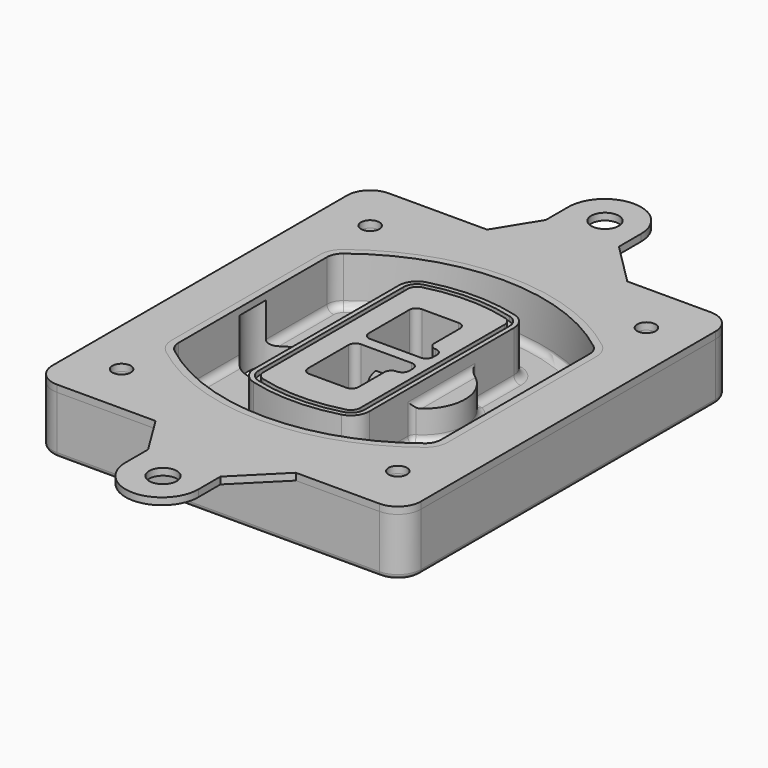
from build123d import *

# Parameters (mm, degrees)
F0_R      = 4
F1_DEPTH  = 25
F2_DEPTH  = 3
F3_DEPTH  = 18
F5_DEPTH  = 21
F6_DEPTH  = 2
F8_DEPTH  = 20
F9_DEPTH  = 16
F10_DEPTH = 25
F7_R      = 6
F7_R_2    = 4
F11_DEPTH = 6
F13_DEPTH = 9
F14_R     = 3
F15_R     = 2
F16_R     = 6
F16_R_2   = 4
F17_DEPTH = 3


with BuildPart() as f1:
    # F0 (on Top) → F1 (new body)
    with BuildSketch(Plane.XY):
        with BuildLine():
            ThreePointArc((-80, -80), (-77.0710678119, -87.0710678119), (-70, -90))
            Line((-70, -90), (70, -90))
            ThreePointArc((70, -90), (77.0710678119, -87.0710678119), (80, -80))
            Line((80, -80), (80, 80))
            ThreePointArc((80, 80), (77.0710678119, 87.0710678119), (70, 90))
            Line((70, 90), (-70, 90))
            ThreePointArc((-70, 90), (-77.0710678119, 87.0710678119), (-80, 80))
            Line((-80, 80), (-80, -80))
        make_face()
        with Locations((-60, -67.5)):
            Circle(F0_R, mode=Mode.SUBTRACT)
        with Locations((60, -67.5)):
            Circle(F0_R, mode=Mode.SUBTRACT)
        with Locations((-60, 67.5)):
            Circle(F0_R, mode=Mode.SUBTRACT)
        with BuildLine():
            ThreePointArc((-64, 40.2934422872), (-62.5820384798, 46.4328484224), (-58.6153846154, 51.3286200352))
            ThreePointArc((-58.6153846154, 51.3286200352), (0, 71.5), (58.6153846154, 51.3286200352))
            ThreePointArc((58.6153846154, 51.3286200352), (62.5820384798, 46.4328484224), (64, 40.2934422872))
            Line((64, 40.2934422872), (64, -40.2934422872))
            ThreePointArc((64, -40.2934422872), (62.5820384798, -46.4328484224), (58.6153846154, -51.3286200352))
            ThreePointArc((58.6153846154, -51.3286200352), (0, -71.5), (-58.6153846154, -51.3286200352))
            ThreePointArc((-58.6153846154, -51.3286200352), (-62.5820384798, -46.4328484224), (-64, -40.2934422872))
            Line((-64, -40.2934422872), (-64, 40.2934422872))
        make_face(mode=Mode.SUBTRACT)
        with Locations((60, 67.5)):
            Circle(F0_R, mode=Mode.SUBTRACT)
        with BuildLine():
            ThreePointArc((58.6153846154, 51.3286200352), (0, 71.5), (-58.6153846154, 51.3286200352))
            ThreePointArc((-58.6153846154, 51.3286200352), (-62.5820384798, 46.4328484224), (-64, 40.2934422872))
            Line((-64, 40.2934422872), (-64, -40.2934422872))
            ThreePointArc((-64, -40.2934422872), (-62.5820384798, -46.4328484224), (-58.6153846154, -51.3286200352))
            ThreePointArc((-58.6153846154, -51.3286200352), (0, -71.5), (58.6153846154, -51.3286200352))
            ThreePointArc((58.6153846154, -51.3286200352), (62.5820384798, -46.4328484224), (64, -40.2934422872))
            Line((64, -40.2934422872), (64, 40.2934422872))
            ThreePointArc((64, 40.2934422872), (62.5820384798, 46.4328484224), (58.6153846154, 51.3286200352))
        make_face()
        with BuildLine():
            Line((-60, -40.2934422872), (-60, 40.2934422872))
            ThreePointArc((-60, 40.2934422872), (-58.9871703427, 44.6787323838), (-56.1538461538, 48.1757121072))
            ThreePointArc((-56.1538461538, 48.1757121072), (0, 67.5), (56.1538461538, 48.1757121072))
            ThreePointArc((56.1538461538, 48.1757121072), (58.9871703427, 44.6787323838), (60, 40.2934422872))
            Line((60, 40.2934422872), (60, -40.2934422872))
            ThreePointArc((60, -40.2934422872), (58.9871703427, -44.6787323838), (56.1538461538, -48.1757121072))
            ThreePointArc((56.1538461538, -48.1757121072), (0, -67.5), (-56.1538461538, -48.1757121072))
            ThreePointArc((-56.1538461538, -48.1757121072), (-58.9871703427, -44.6787323838), (-60, -40.2934422872))
        make_face(mode=Mode.SUBTRACT)
        with BuildLine():
            ThreePointArc((-56.1538461538, 48.1757121072), (-58.9871703427, 44.6787323838), (-60, 40.2934422872))
            Line((-60, 40.2934422872), (-60, -40.2934422872))
            ThreePointArc((-60, -40.2934422872), (-58.9871703427, -44.6787323838), (-56.1538461538, -48.1757121072))
            ThreePointArc((-56.1538461538, -48.1757121072), (0, -67.5), (56.1538461538, -48.1757121072))
            ThreePointArc((56.1538461538, -48.1757121072), (58.9871703427, -44.6787323838), (60, -40.2934422872))
            Line((60, -40.2934422872), (60, 40.2934422872))
            ThreePointArc((60, 40.2934422872), (58.9871703427, 44.6787323838), (56.1538461538, 48.1757121072))
            ThreePointArc((56.1538461538, 48.1757121072), (0, 67.5), (-56.1538461538, 48.1757121072))
        make_face()
        with BuildLine():
            ThreePointArc((54.3076923077, 45.8110311612), (56.2910192399, 43.3631453548), (57, 40.2934422872))
            Line((57, 40.2934422872), (57, -40.2934422872))
            ThreePointArc((57, -40.2934422872), (56.2910192399, -43.3631453548), (54.3076923077, -45.8110311612))
            ThreePointArc((54.3076923077, -45.8110311612), (0, -64.5), (-54.3076923077, -45.8110311612))
            ThreePointArc((-54.3076923077, -45.8110311612), (-56.2910192399, -43.3631453548), (-57, -40.2934422872))
            Line((-57, -40.2934422872), (-57, 40.2934422872))
            ThreePointArc((-57, 40.2934422872), (-56.2910192399, 43.3631453548), (-54.3076923077, 45.8110311612))
            ThreePointArc((-54.3076923077, 45.8110311612), (0, 64.5), (54.3076923077, 45.8110311612))
        make_face(mode=Mode.SUBTRACT)
        with BuildLine():
            Line((57, -40.2934422872), (57, 40.2934422872))
            ThreePointArc((57, 40.2934422872), (56.2910192399, 43.3631453548), (54.3076923077, 45.8110311612))
            ThreePointArc((54.3076923077, 45.8110311612), (0, 64.5), (-54.3076923077, 45.8110311612))
            ThreePointArc((-54.3076923077, 45.8110311612), (-56.2910192399, 43.3631453548), (-57, 40.2934422872))
            Line((-57, 40.2934422872), (-57, -40.2934422872))
            ThreePointArc((-57, -40.2934422872), (-56.2910192399, -43.3631453548), (-54.3076923077, -45.8110311612))
            ThreePointArc((-54.3076923077, -45.8110311612), (0, -64.5), (54.3076923077, -45.8110311612))
            ThreePointArc((54.3076923077, -45.8110311612), (56.2910192399, -43.3631453548), (57, -40.2934422872))
        make_face()
    extrude(amount=-F1_DEPTH)

    # F0 (on Top) → F2 (join)
    with BuildSketch(Plane.XY):
        with BuildLine():
            ThreePointArc((-56.1538461538, 48.1757121072), (-58.9871703427, 44.6787323838), (-60, 40.2934422872))
            Line((-60, 40.2934422872), (-60, -40.2934422872))
            ThreePointArc((-60, -40.2934422872), (-58.9871703427, -44.6787323838), (-56.1538461538, -48.1757121072))
            ThreePointArc((-56.1538461538, -48.1757121072), (0, -67.5), (56.1538461538, -48.1757121072))
            ThreePointArc((56.1538461538, -48.1757121072), (58.9871703427, -44.6787323838), (60, -40.2934422872))
            Line((60, -40.2934422872), (60, 40.2934422872))
            ThreePointArc((60, 40.2934422872), (58.9871703427, 44.6787323838), (56.1538461538, 48.1757121072))
            ThreePointArc((56.1538461538, 48.1757121072), (0, 67.5), (-56.1538461538, 48.1757121072))
        make_face()
        with BuildLine():
            ThreePointArc((54.3076923077, 45.8110311612), (56.2910192399, 43.3631453548), (57, 40.2934422872))
            Line((57, 40.2934422872), (57, -40.2934422872))
            ThreePointArc((57, -40.2934422872), (56.2910192399, -43.3631453548), (54.3076923077, -45.8110311612))
            ThreePointArc((54.3076923077, -45.8110311612), (0, -64.5), (-54.3076923077, -45.8110311612))
            ThreePointArc((-54.3076923077, -45.8110311612), (-56.2910192399, -43.3631453548), (-57, -40.2934422872))
            Line((-57, -40.2934422872), (-57, 40.2934422872))
            ThreePointArc((-57, 40.2934422872), (-56.2910192399, 43.3631453548), (-54.3076923077, 45.8110311612))
            ThreePointArc((-54.3076923077, 45.8110311612), (0, 64.5), (54.3076923077, 45.8110311612))
        make_face(mode=Mode.SUBTRACT)
    extrude(amount=F2_DEPTH)

    # F0 (on Top) → F3 (cut)
    with BuildSketch(Plane.XY):
        with BuildLine():
            Line((57, -40.2934422872), (57, 40.2934422872))
            ThreePointArc((57, 40.2934422872), (56.2910192399, 43.3631453548), (54.3076923077, 45.8110311612))
            ThreePointArc((54.3076923077, 45.8110311612), (0, 64.5), (-54.3076923077, 45.8110311612))
            ThreePointArc((-54.3076923077, 45.8110311612), (-56.2910192399, 43.3631453548), (-57, 40.2934422872))
            Line((-57, 40.2934422872), (-57, -40.2934422872))
            ThreePointArc((-57, -40.2934422872), (-56.2910192399, -43.3631453548), (-54.3076923077, -45.8110311612))
            ThreePointArc((-54.3076923077, -45.8110311612), (0, -64.5), (54.3076923077, -45.8110311612))
            ThreePointArc((54.3076923077, -45.8110311612), (56.2910192399, -43.3631453548), (57, -40.2934422872))
        make_face()
    extrude(amount=-F3_DEPTH, mode=Mode.SUBTRACT)

    # F4 (on face) → F5 (join, through all)
    with BuildSketch(Plane.XY.offset(3)):
        with BuildLine():
            ThreePointArc((-25, -39.2465276821), (-23.3511545998, -44.1109737193), (-19.0842911877, -46.9702398883))
            ThreePointArc((-19.0842911877, -46.9702398883), (0, -49.5), (19.0842911877, -46.9702398883))
            ThreePointArc((19.0842911877, -46.9702398883), (23.3511545998, -44.1109737193), (25, -39.2465276821))
            Line((25, -39.2465276821), (25, 39.2465276821))
            ThreePointArc((25, 39.2465276821), (23.3511545998, 44.1109737193), (19.0842911877, 46.9702398883))
            ThreePointArc((19.0842911877, 46.9702398883), (0, 49.5), (-19.0842911877, 46.9702398883))
            ThreePointArc((-19.0842911877, 46.9702398883), (-23.3511545998, 44.1109737193), (-25, 39.2465276821))
            Line((-25, 39.2465276821), (-25, -39.2465276821))
        make_face()
        with BuildLine():
            ThreePointArc((18.5632183908, 45.0393118368), (21.7633659499, 42.89486221), (23, 39.2465276821))
            Line((23, 39.2465276821), (23, -39.2465276821))
            ThreePointArc((23, -39.2465276821), (21.7633659499, -42.89486221), (18.5632183908, -45.0393118368))
            ThreePointArc((18.5632183908, -45.0393118368), (0, -47.5), (-18.5632183908, -45.0393118368))
            ThreePointArc((-18.5632183908, -45.0393118368), (-21.7633659499, -42.89486221), (-23, -39.2465276821))
            Line((-23, -39.2465276821), (-23, 39.2465276821))
            ThreePointArc((-23, 39.2465276821), (-21.7633659499, 42.89486221), (-18.5632183908, 45.0393118368))
            ThreePointArc((-18.5632183908, 45.0393118368), (0, 47.5), (18.5632183908, 45.0393118368))
        make_face(mode=Mode.SUBTRACT)
        with BuildLine():
            Line((23, -39.2465276821), (23, 39.2465276821))
            ThreePointArc((23, 39.2465276821), (21.7633659499, 42.89486221), (18.5632183908, 45.0393118368))
            ThreePointArc((18.5632183908, 45.0393118368), (0, 47.5), (-18.5632183908, 45.0393118368))
            ThreePointArc((-18.5632183908, 45.0393118368), (-21.7633659499, 42.89486221), (-23, 39.2465276821))
            Line((-23, 39.2465276821), (-23, -39.2465276821))
            ThreePointArc((-23, -39.2465276821), (-21.7633659499, -42.89486221), (-18.5632183908, -45.0393118368))
            ThreePointArc((-18.5632183908, -45.0393118368), (0, -47.5), (18.5632183908, -45.0393118368))
            ThreePointArc((18.5632183908, -45.0393118368), (21.7633659499, -42.89486221), (23, -39.2465276821))
        make_face()
        with BuildLine():
            ThreePointArc((18.0421455939, 43.1083837852), (20.1755772999, 41.6787507007), (21, 39.2465276821))
            Line((21, 39.2465276821), (21, -39.2465276821))
            ThreePointArc((21, -39.2465276821), (20.1755772999, -41.6787507007), (18.0421455939, -43.1083837852))
            ThreePointArc((18.0421455939, -43.1083837852), (0, -45.5), (-18.0421455939, -43.1083837852))
            ThreePointArc((-18.0421455939, -43.1083837852), (-20.1755772999, -41.6787507007), (-21, -39.2465276821))
            Line((-21, -39.2465276821), (-21, 39.2465276821))
            ThreePointArc((-21, 39.2465276821), (-20.1755772999, 41.6787507007), (-18.0421455939, 43.1083837852))
            ThreePointArc((-18.0421455939, 43.1083837852), (0, 45.5), (18.0421455939, 43.1083837852))
        make_face(mode=Mode.SUBTRACT)
        with BuildLine():
            Line((21, -39.2465276821), (21, 39.2465276821))
            ThreePointArc((21, 39.2465276821), (20.1755772999, 41.6787507007), (18.0421455939, 43.1083837852))
            ThreePointArc((18.0421455939, 43.1083837852), (0, 45.5), (-18.0421455939, 43.1083837852))
            ThreePointArc((-18.0421455939, 43.1083837852), (-20.1755772999, 41.6787507007), (-21, 39.2465276821))
            Line((-21, 39.2465276821), (-21, -39.2465276821))
            ThreePointArc((-21, -39.2465276821), (-20.1755772999, -41.6787507007), (-18.0421455939, -43.1083837852))
            ThreePointArc((-18.0421455939, -43.1083837852), (0, -45.5), (18.0421455939, -43.1083837852))
            ThreePointArc((18.0421455939, -43.1083837852), (20.1755772999, -41.6787507007), (21, -39.2465276821))
        make_face()
        with BuildLine():
            Line((-8, -2.5), (14, -2.5))
            ThreePointArc((14, -2.5), (16.1213203436, -3.3786796564), (17, -5.5))
            Line((17, -5.5), (17, -7.5))
            ThreePointArc((17, -7.5), (16.1213203436, -9.6213203436), (14, -10.5))
            ThreePointArc((14, -10.5), (11.8786796564, -11.3786796564), (11, -13.5))
            Line((11, -13.5), (11, -27.5))
            ThreePointArc((11, -27.5), (10.1213203436, -29.6213203436), (8, -30.5))
            Line((8, -30.5), (-8, -30.5))
            ThreePointArc((-8, -30.5), (-10.1213203436, -29.6213203436), (-11, -27.5))
            Line((-11, -27.5), (-11, -5.5))
            ThreePointArc((-11, -5.5), (-10.1213203436, -3.3786796564), (-8, -2.5))
        make_face(mode=Mode.SUBTRACT)
        with BuildLine():
            ThreePointArc((-8, 2.5), (-10.1213203436, 3.3786796564), (-11, 5.5))
            Line((-11, 5.5), (-11, 27.5))
            ThreePointArc((-11, 27.5), (-10.1213203436, 29.6213203436), (-8, 30.5))
            Line((-8, 30.5), (8, 30.5))
            ThreePointArc((8, 30.5), (10.1213203436, 29.6213203436), (11, 27.5))
            Line((11, 27.5), (11, 13.5))
            ThreePointArc((11, 13.5), (11.8786796564, 11.3786796564), (14, 10.5))
            ThreePointArc((14, 10.5), (16.1213203436, 9.6213203436), (17, 7.5))
            Line((17, 7.5), (17, 5.5))
            ThreePointArc((17, 5.5), (16.1213203436, 3.3786796564), (14, 2.5))
            Line((14, 2.5), (-8, 2.5))
        make_face(mode=Mode.SUBTRACT)
    extrude(amount=-F5_DEPTH)

    # F4 (on face) → F6 (cut)
    with BuildSketch(Plane.XY.offset(3)):
        with BuildLine():
            Line((23, -39.2465276821), (23, 39.2465276821))
            ThreePointArc((23, 39.2465276821), (21.7633659499, 42.89486221), (18.5632183908, 45.0393118368))
            ThreePointArc((18.5632183908, 45.0393118368), (0, 47.5), (-18.5632183908, 45.0393118368))
            ThreePointArc((-18.5632183908, 45.0393118368), (-21.7633659499, 42.89486221), (-23, 39.2465276821))
            Line((-23, 39.2465276821), (-23, -39.2465276821))
            ThreePointArc((-23, -39.2465276821), (-21.7633659499, -42.89486221), (-18.5632183908, -45.0393118368))
            ThreePointArc((-18.5632183908, -45.0393118368), (0, -47.5), (18.5632183908, -45.0393118368))
            ThreePointArc((18.5632183908, -45.0393118368), (21.7633659499, -42.89486221), (23, -39.2465276821))
        make_face()
        with BuildLine():
            ThreePointArc((18.0421455939, 43.1083837852), (20.1755772999, 41.6787507007), (21, 39.2465276821))
            Line((21, 39.2465276821), (21, -39.2465276821))
            ThreePointArc((21, -39.2465276821), (20.1755772999, -41.6787507007), (18.0421455939, -43.1083837852))
            ThreePointArc((18.0421455939, -43.1083837852), (0, -45.5), (-18.0421455939, -43.1083837852))
            ThreePointArc((-18.0421455939, -43.1083837852), (-20.1755772999, -41.6787507007), (-21, -39.2465276821))
            Line((-21, -39.2465276821), (-21, 39.2465276821))
            ThreePointArc((-21, 39.2465276821), (-20.1755772999, 41.6787507007), (-18.0421455939, 43.1083837852))
            ThreePointArc((-18.0421455939, 43.1083837852), (0, 45.5), (18.0421455939, 43.1083837852))
        make_face(mode=Mode.SUBTRACT)
    extrude(amount=-F6_DEPTH, mode=Mode.SUBTRACT)

    # F7 (on face) → F8 (join)
    with BuildSketch(Plane(origin=(0, 0, -25), x_dir=(1, 0, 0), z_dir=(0, 0, -1))):
        with BuildLine():
            ThreePointArc((3.28842436, 0), (16.7567035675, 13.4682792075), (30.224982775, 0))
            Line((30.224982775, 0), (35.224982775, 0))
            ThreePointArc((35.224982775, 0), (16.7567035675, 18.4682792075), (-1.71157564, 0))
            Line((-1.71157564, 0), (3.28842436, 0))
        make_face()
        with BuildLine():
            Line((3.28842436, 0), (30.224982775, 0))
            ThreePointArc((30.224982775, 0), (16.7567035675, 13.4682792075), (3.28842436, 0))
        make_face()
        with BuildLine():
            ThreePointArc((3.28842436, 0), (16.7567035675, -13.4682792075), (30.224982775, 0))
            Line((30.224982775, 0), (3.28842436, 0))
        make_face()
        with BuildLine():
            Line((35.224982775, 0), (30.224982775, 0))
            ThreePointArc((30.224982775, 0), (16.7567035675, -13.4682792075), (3.28842436, 0))
            Line((3.28842436, 0), (-1.71157564, 0))
            ThreePointArc((-1.71157564, 0), (16.7567035675, -18.4682792075), (35.224982775, 0))
        make_face()
    extrude(amount=-F8_DEPTH)

    # F7 (on face) → F9 (cut)
    with BuildSketch(Plane(origin=(0, 0, -25), x_dir=(1, 0, 0), z_dir=(0, 0, -1))):
        with BuildLine():
            Line((3.28842436, 0), (30.224982775, 0))
            ThreePointArc((30.224982775, 0), (16.7567035675, 13.4682792075), (3.28842436, 0))
        make_face()
        with BuildLine():
            ThreePointArc((3.28842436, 0), (16.7567035675, -13.4682792075), (30.224982775, 0))
            Line((30.224982775, 0), (3.28842436, 0))
        make_face()
    extrude(amount=-F9_DEPTH, mode=Mode.SUBTRACT)

    # F7 (on face) → F10 (cut)
    with BuildSketch(Plane(origin=(0, 0, -25), x_dir=(1, 0, 0), z_dir=(0, 0, -1))):
        with BuildLine():
            Line((-59.0318229325, 0), (-32.0952645175, 0))
            ThreePointArc((-32.0952645175, 0), (-45.563543725, 13.4682792075), (-59.0318229325, 0))
        make_face()
        with BuildLine():
            ThreePointArc((-59.0318229325, 0), (-45.563543725, -13.4682792075), (-32.0952645175, 0))
            Line((-32.0952645175, 0), (-59.0318229325, 0))
        make_face()
    extrude(amount=-F10_DEPTH, mode=Mode.SUBTRACT)

    # F7 (on face) → F11 (cut)
    with BuildSketch(Plane(origin=(0, 0, -25), x_dir=(1, 0, 0), z_dir=(0, 0, -1))):
        with Locations((60, -67.5)):
            Circle(F7_R)
        with Locations((60, -67.5)):
            Circle(F7_R_2, mode=Mode.SUBTRACT)
        with Locations((60, -67.5)):
            Circle(F7_R)
        with Locations((60, -67.5)):
            Circle(F7_R_2, mode=Mode.SUBTRACT)
        with Locations((-60, -67.5)):
            Circle(F7_R)
        with Locations((-60, -67.5)):
            Circle(F7_R_2, mode=Mode.SUBTRACT)
        with Locations((-60, -67.5)):
            Circle(F7_R)
        with Locations((-60, -67.5)):
            Circle(F7_R_2, mode=Mode.SUBTRACT)
        with Locations((-60, 67.5)):
            Circle(F7_R)
        with Locations((-60, 67.5)):
            Circle(F7_R_2, mode=Mode.SUBTRACT)
        with Locations((-60, 67.5)):
            Circle(F7_R)
        with Locations((-60, 67.5)):
            Circle(F7_R_2, mode=Mode.SUBTRACT)
        with Locations((60, 67.5)):
            Circle(F7_R)
        with Locations((60, 67.5)):
            Circle(F7_R_2, mode=Mode.SUBTRACT)
        with Locations((60, 67.5)):
            Circle(F7_R)
        with Locations((60, 67.5)):
            Circle(F7_R_2, mode=Mode.SUBTRACT)
    extrude(amount=-F11_DEPTH, mode=Mode.SUBTRACT)

    # F12 (on face) → F13 (cut, through all)
    with BuildSketch(Plane(origin=(0, 0, -9), x_dir=(1, 0, 0), z_dir=(0, 0, -1))):
        with BuildLine():
            Line((11, 13.5), (11, 17.5481537753))
            ThreePointArc((11, 17.5481537753), (2.5696536419, 11.8239143813), (-1.5415842455, 2.5))
            Line((-1.5415842455, 2.5), (3.5224848595, 2.5))
            ThreePointArc((3.5224848595, 2.5), (6.1857188154, 8.3455872281), (11.2536447004, 12.2927168648))
            ThreePointArc((11.2536447004, 12.2927168648), (11.0640958889, 12.8831798879), (11, 13.5))
        make_face()
        with BuildLine():
            ThreePointArc((11.2536447004, -12.2927168648), (6.1857188154, -8.3455872281), (3.5224848595, -2.5))
            Line((3.5224848595, -2.5), (-1.5415842455, -2.5))
            ThreePointArc((-1.5415842455, -2.5), (2.5696536419, -11.8239143813), (11, -17.5481537753))
            Line((11, -17.5481537753), (11, -13.5))
            ThreePointArc((11, -13.5), (11.0640958889, -12.8831798879), (11.2536447004, -12.2927168648))
        make_face()
        with BuildLine():
            ThreePointArc((11.2536447004, 12.2927168648), (6.1857188154, 8.3455872281), (3.5224848595, 2.5))
            Line((3.5224848595, 2.5), (14, 2.5))
            ThreePointArc((14, 2.5), (16.1213203436, 3.3786796564), (17, 5.5))
            Line((17, 5.5), (17, 7.5))
            ThreePointArc((17, 7.5), (16.1213203436, 9.6213203436), (14, 10.5))
            ThreePointArc((14, 10.5), (12.3601599782, 10.9878446101), (11.2536447004, 12.2927168648))
        make_face()
        with BuildLine():
            Line((14, -2.5), (3.5224848595, -2.5))
            ThreePointArc((3.5224848595, -2.5), (6.1857188154, -8.3455872281), (11.2536447004, -12.2927168648))
            ThreePointArc((11.2536447004, -12.2927168648), (12.3601599782, -10.9878446101), (14, -10.5))
            ThreePointArc((14, -10.5), (16.1213203436, -9.6213203436), (17, -7.5))
            Line((17, -7.5), (17, -5.5))
            ThreePointArc((17, -5.5), (16.1213203436, -3.3786796564), (14, -2.5))
        make_face()
    extrude(amount=F13_DEPTH, mode=Mode.SUBTRACT)

    # F14
    f14_edges = [f1.edges().sort_by_distance(p)[0] for p in [
        (-57, -23.703476, -18),
        (-57, 23.703476, -18),
        (25, 0, -5),
        (25, 16.526506, -11.5),
        (25, -16.526506, -11.5),
        (25, -27.886517, -18),
        (35.224983, 0, -18),
    ]]
    fillet(f14_edges, radius=F14_R)

    # F15
    f15_edges = [f1.edges().sort_by_distance(p)[0] for p in [
        (0, -90, -25),
    ]]
    fillet(f15_edges, radius=F15_R)


with BuildPart() as f17:
    # F16 (on face) → F17 (new body, through all)
    with BuildSketch(Plane.XY):
        with BuildLine():
            Line((-16.0893651023, 108), (-27.2202603519, 90))
            Line((-27.2202603519, 90), (33.6788445711, 90))
            Line((33.6788445711, 90), (15.4990227281, 108.179821843))
            Line((15.4990227281, 108.179821843), (15.4990227281, 120.179821843))
            ThreePointArc((15.4990227281, 120.179821843), (-0.2951711871, 135.9740157582), (-16.0893651023, 120.179821843))
            Line((-16.0893651023, 120.179821843), (-16.0893651023, 108))
        make_face()
        with Locations((0, 120)):
            Circle(F16_R, mode=Mode.SUBTRACT)
        with BuildLine():
            Line((33.6788445711, -90), (-27.2202603519, -90))
            Line((-27.2202603519, -90), (-16.0893651023, -108))
            Line((-16.0893651023, -108), (-16.0893651023, -120.179821843))
            ThreePointArc((-16.0893651023, -120.179821843), (-0.2951711871, -135.9740157582), (15.4990227281, -120.179821843))
            Line((15.4990227281, -120.179821843), (15.4990227281, -108.179821843))
            Line((15.4990227281, -108.179821843), (33.6788445711, -90))
        make_face()
        with Locations((0, -120)):
            Circle(F16_R, mode=Mode.SUBTRACT)
        with BuildLine():
            Line((33.6788445711, 90), (-27.2202603519, 90))
            Line((-27.2202603519, 90), (-70, 90))
            ThreePointArc((-70, 90), (-77.0710678119, 87.0710678119), (-80, 80))
            Line((-80, 80), (-80, -80))
            ThreePointArc((-80, -80), (-77.0710678119, -87.0710678119), (-70, -90))
            Line((-70, -90), (-27.2202603519, -90))
            Line((-27.2202603519, -90), (33.6788445711, -90))
            Line((33.6788445711, -90), (70, -90))
            ThreePointArc((70, -90), (77.0710678119, -87.0710678119), (80, -80))
            Line((80, -80), (80, 80))
            ThreePointArc((80, 80), (77.0710678119, 87.0710678119), (70, 90))
            Line((70, 90), (33.6788445711, 90))
        make_face()
        with Locations((-60, -67.5)):
            Circle(F16_R_2, mode=Mode.SUBTRACT)
        with Locations((60, -67.5)):
            Circle(F16_R_2, mode=Mode.SUBTRACT)
        with Locations((-60, 67.5)):
            Circle(F16_R_2, mode=Mode.SUBTRACT)
        with BuildLine():
            ThreePointArc((-60, 40.2934422872), (-58.9871703427, 44.6787323838), (-56.1538461538, 48.1757121072))
            ThreePointArc((-56.1538461538, 48.1757121072), (0, 67.5), (56.1538461538, 48.1757121072))
            ThreePointArc((56.1538461538, 48.1757121072), (58.9871703427, 44.6787323838), (60, 40.2934422872))
            Line((60, 40.2934422872), (60, -40.2934422872))
            ThreePointArc((60, -40.2934422872), (58.9871703427, -44.6787323838), (56.1538461538, -48.1757121072))
            ThreePointArc((56.1538461538, -48.1757121072), (0, -67.5), (-56.1538461538, -48.1757121072))
            ThreePointArc((-56.1538461538, -48.1757121072), (-58.9871703427, -44.6787323838), (-60, -40.2934422872))
            Line((-60, -40.2934422872), (-60, 40.2934422872))
        make_face(mode=Mode.SUBTRACT)
        with Locations((60, 67.5)):
            Circle(F16_R_2, mode=Mode.SUBTRACT)
    extrude(amount=F17_DEPTH)


solid = Compound([f1.part, f17.part])
